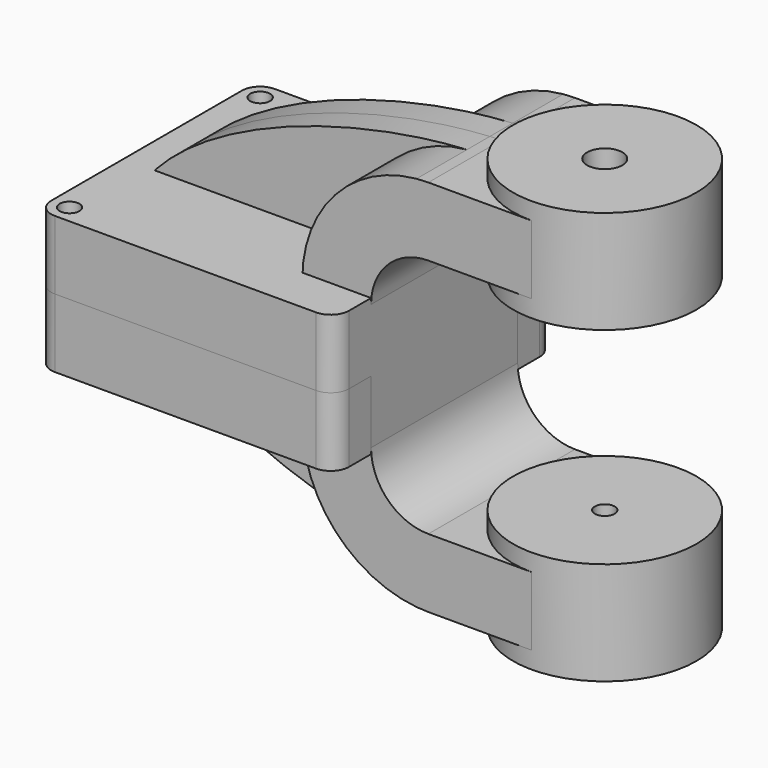
from build123d import *

# Parameters (mm, degrees)
F1_DEPTH       = 38.1
F0_W           = 25.4
F0_H           = 19.05
F2_DEPTH       = 25.4
F3_DEPTH       = 7.9375
F5_R           = 5.08
F8_D           = 5.5
F8_CBORE_D     = 9.75
F8_CBORE_DEPTH = 5
F9_D           = 5.5
F11_D          = 5.5


with BuildPart() as f1:
    # F0 (on Front) → F1 (new body, symmetric)
    with BuildSketch(Plane.XZ):
        Polygon((22.225, 9.525), (-41.275, 9.525), (-41.275, -9.525), (41.275, -9.525), (41.275, 9.525), align=None)
    extrude(amount=F1_DEPTH, both=True)

    # F0 (on Front) → F2 (join, symmetric)
    with BuildSketch(Plane.XZ):
        with BuildLine():
            Line((22.225, 27.0002), (22.225, 9.525))
            Line((22.225, 9.525), (41.275, 9.525))
            Line((41.275, 9.525), (41.275, 27.0002))
            ThreePointArc((41.275, 27.0002), (45.9246798487, 38.2255201513), (57.15, 42.8752))
            Line((57.15, 42.8752), (60.325, 42.8752))
            Line((60.325, 42.8752), (60.325, 61.9252))
            Line((60.325, 61.9252), (57.15, 61.9252))
            add(Edge.make_bspline(
                [(53.8854342407, 61.7722898912), (54.9842067368, 61.8365871986), (56.0728453275, 61.8876096574), (57.15, 61.9252)],
                knots=[108.5245810491, 108.5245810491, 108.5245810491, 108.5245810491, 111.5045361635, 111.5045361635, 111.5045361635, 111.5045361635], degree=3))
            ThreePointArc((53.8854342407, 61.7722898912), (31.3258777096, 50.5133948686), (22.225, 27.0002))
        make_face()
        with Locations((73.025, 52.4002)):
            Rectangle(F0_W, F0_H)
    extrude(amount=F2_DEPTH, both=True)

    # F0 (on Front) → F3 (join, symmetric)
    with BuildSketch(Plane.XZ):
        with BuildLine():
            add(Edge.make_bspline(
                [(-41.275, 9.525), (-39.5856284224, 39.4828766469), (13.870125209, 59.4306981306), (53.8854342407, 61.7722898912)],
                knots=[0, 0, 0, 0, 108.5245810491, 108.5245810491, 108.5245810491, 108.5245810491], degree=3))
            Line((-41.275, 9.525), (22.225, 9.525))
            Line((22.225, 9.525), (22.225, 27.0002))
            ThreePointArc((22.225, 27.0002), (31.3258777096, 50.5133948686), (53.8854342407, 61.7722898912))
        make_face()
    extrude(amount=F3_DEPTH, both=True)

    # F0 (on Front) → F4 (revolve)
    with BuildSketch(Plane.XZ):
        Polygon((85.725, 66.675), (85.725, 61.9252), (85.725, 42.8752), (85.725, 38.1), (111.125, 38.1), (111.125, 66.675), align=None)
    revolve(axis=Axis((85.725, 0, 52.3875), (0, 0, 1)))

    # F5
    f5_edges = [f1.edges().sort_by_distance(p)[0] for p in [
        (41.275, -38.1, 0),
        (-41.275, -38.1, 0),
        (41.275, 38.1, 0),
        (-41.275, 38.1, 0),
    ]]
    fillet(f5_edges, radius=F5_R)

    # F8 (through all)
    with Locations(Plane.XY.offset(66.675)):
        with Locations((85.725, 0)):
            CounterBoreHole(F8_D / 2, F8_CBORE_D / 2, F8_CBORE_DEPTH)

    # F9 (through all)
    with Locations(Plane.XY.offset(9.525)):
        with Locations((-36.195, 33.02)):
            Hole(F9_D / 2)

    # F11 (through all)
    with Locations(Plane.XY.offset(9.525)):
        with Locations((-36.195, -33.02)):
            Hole(F11_D / 2)


with BuildPart() as f12_1:
    # F12: instance of F1
    add(f1.part.mirror(Plane(origin=(-4.571219074, 23.829290907, 9.525), x_dir=(1, 0, 0), z_dir=(0, 0, 1))))


solid = Compound([f1.part, f12_1.part])
